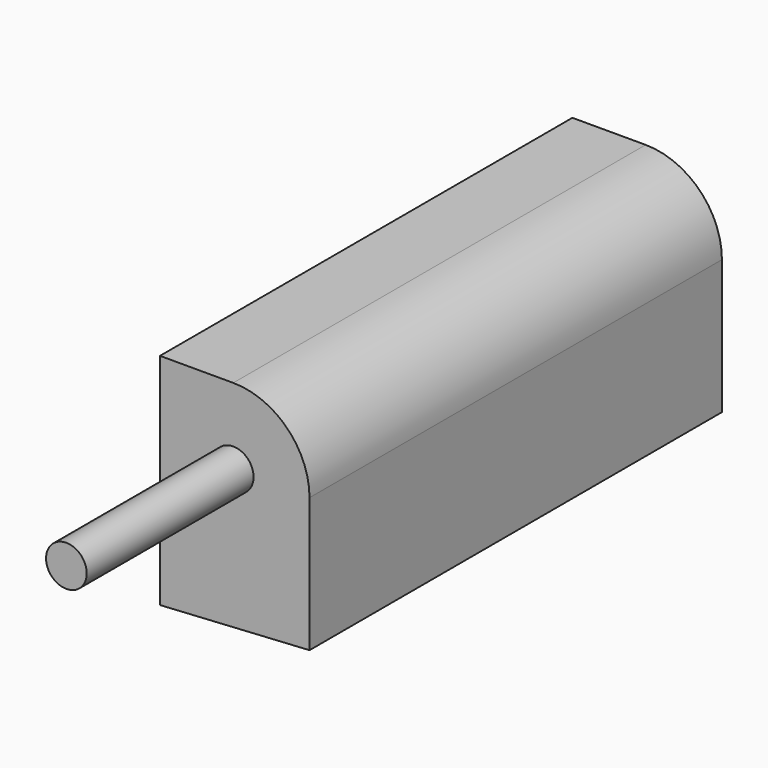
from build123d import *

# Parameters (mm, degrees)
F1_DEPTH = 90.5968919396
F2_R     = 13.402691555
F3_R     = 3.5726570055
F4_DEPTH = 36.660566926


with BuildPart() as f1:
    # F0 (on Front) → F1 (new body)
    with BuildSketch(Plane.XZ):
        Polygon((36.8415974081, 38.5606420045), (10.5619765818, 38.5606420045), (10.5619765818, 0), (36.8415974081, 1.5603324458), align=None)
    extrude(amount=F1_DEPTH)

    # F2
    f2_edges = [f1.edges().sort_by_distance(p)[0] for p in [
        (36.841597, -45.298446, 38.560642),
    ]]
    fillet(f2_edges, radius=F2_R)

    # F3 (on face) → F4 (join)
    with BuildSketch(Plane.XZ.offset(90.5968919396)):
        with Locations((23.4389058531, 25.1579504495)):
            Circle(F3_R)
    extrude(amount=F4_DEPTH)


solid = f1.part
